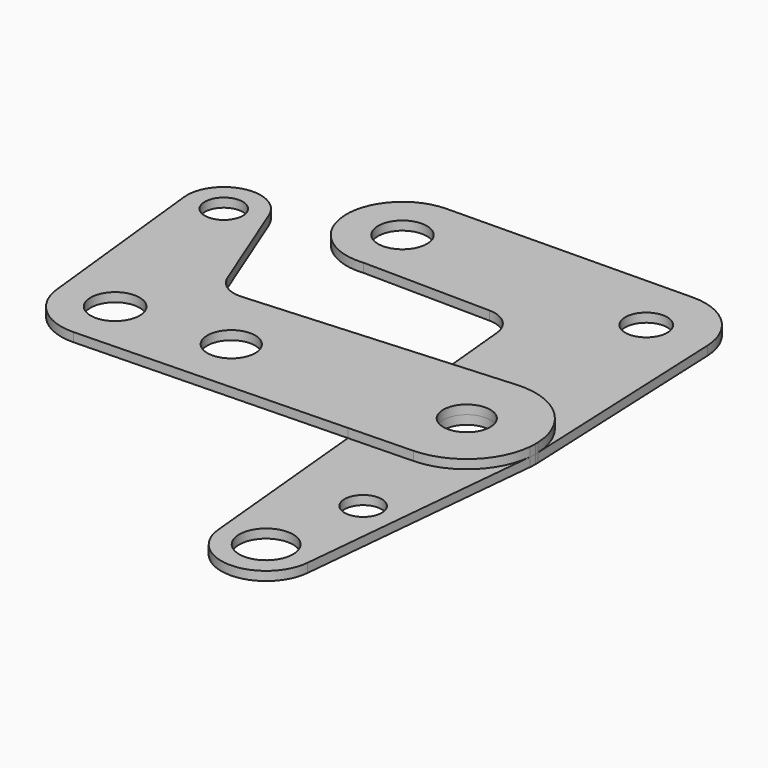
from build123d import *

# Parameters (mm, degrees)
F0_R     = 8.633264
F0_R_2   = 7.437079
F0_R_3   = 9.521946
F0_R_4   = 6.579418
F0_R_5   = 8.316772
F1_DEPTH = 3.175
F0_R_6   = 6.71425
F0_R_7   = 8.473209
F0_R_8   = 8.669764
F2_DEPTH = 3.175


with BuildPart() as f1:
    # F0 (on Top) → F1 (new body)
    with BuildSketch(Plane.XY):
        with BuildLine():
            ThreePointArc((-59.972242, 35.293062), (-47.28305, 41.723471), (-42.175356, 55.000415))
            ThreePointArc((-42.175356, 55.000415), (-48.067796, 69.097805), (-62.239713, 74.808676))
            ThreePointArc((-62.239713, 74.808676), (-81.762614, 53.865557), (-59.972242, 35.293062))
        make_face()
        with Locations((-61.985252, 55.000415)):
            Circle(F0_R, mode=Mode.SUBTRACT)
        with BuildLine():
            ThreePointArc((45.147991, 55.908182), (38.619234, 70.201531), (23.981405, 75.916291))
            ThreePointArc((23.981405, 75.916291), (9.55442, 40.114743), (45.167697, 55.000415))
            ThreePointArc((45.167697, 55.000415), (45.16277, 55.454405), (45.147991, 55.908182))
        make_face()
        with Locations((24.250095, 55.000415)):
            Circle(F0_R_2, mode=Mode.SUBTRACT)
        with BuildLine():
            ThreePointArc((8.443274, -114.59414), (24.250095, -128.955434), (40.056916, -114.59414))
            ThreePointArc((40.056916, -114.59414), (40.111468, -113.835873), (40.129666, -113.075864))
            ThreePointArc((40.129666, -113.075864), (23.490086, -97.214491), (8.443274, -114.59414))
        make_face()
        with Locations((24.250095, -113.075864)):
            Circle(F0_R_3, mode=Mode.SUBTRACT)
        with BuildLine():
            Line((22.584946, -0.056974), (-2.393872, -1.768306))
            Line((-2.393872, -1.768306), (0, -26.690974))
            ThreePointArc((0, -26.690974), (5.669394, -8.605748), (22.584946, -0.056974))
        make_face()
        with BuildLine():
            ThreePointArc((24.914322, -48.714351), (8.115332, -42.61443), (0, -26.690974))
            Line((0, -26.690974), (2.174963, -49.334574))
            Line((2.174963, -49.334574), (24.914322, -48.714351))
        make_face()
        with BuildLine():
            ThreePointArc((-62.239713, 74.808676), (-48.067796, 69.097805), (-42.175356, 55.000415))
            ThreePointArc((-42.175356, 55.000415), (-47.28305, 41.723471), (-59.972242, 35.293062))
            Line((-59.972242, 35.293062), (-15.000568, 34.721326))
            ThreePointArc((-15.000568, 34.721326), (-8.249935, 32.038382), (-5.016271, 25.533564))
            Line((-5.016271, 25.533564), (-2.393872, -1.768306))
            Line((-2.393872, -1.768306), (22.584946, -0.056974))
            ThreePointArc((22.584946, -0.056974), (40.486924, -6.19971), (48.588848, -23.304472))
            Line((48.588848, -23.304472), (45.147991, 55.908182))
            ThreePointArc((45.147991, 55.908182), (45.16277, 55.454405), (45.167697, 55.000415))
            ThreePointArc((45.167697, 55.000415), (9.55442, 40.114743), (23.981405, 75.916291))
            Line((23.981405, 75.916291), (-62.239713, 74.808676))
        make_face()
        with BuildLine():
            Line((40.056916, -114.59414), (48.50019, -26.690974))
            ThreePointArc((48.50019, -26.690974), (40.876524, -42.167727), (24.914322, -48.714351))
            Line((24.914322, -48.714351), (2.174963, -49.334574))
            Line((2.174963, -49.334574), (8.443274, -114.59414))
            ThreePointArc((8.443274, -114.59414), (23.490086, -97.214491), (40.129666, -113.075864))
            ThreePointArc((40.129666, -113.075864), (40.111468, -113.835873), (40.056916, -114.59414))
        make_face()
        with Locations((30.829513, -78.394532)):
            Circle(F0_R_4, mode=Mode.SUBTRACT)
        with BuildLine():
            ThreePointArc((48.611799, -24.361704), (48.60606, -23.832963), (48.588848, -23.304472))
            ThreePointArc((48.588848, -23.304472), (40.486924, -6.19971), (22.584946, -0.056974))
            ThreePointArc((22.584946, -0.056974), (5.669394, -8.605748), (0, -26.690974))
            ThreePointArc((0, -26.690974), (8.115332, -42.61443), (24.914322, -48.714351))
            ThreePointArc((24.914322, -48.714351), (40.876524, -42.167727), (48.50019, -26.690974))
            ThreePointArc((48.50019, -26.690974), (48.583881, -25.527675), (48.611799, -24.361704))
        make_face()
        with Locations((24.250095, -24.361704)):
            Circle(F0_R_5, mode=Mode.SUBTRACT)
    extrude(amount=-F1_DEPTH)


with BuildPart() as f2:
    # F0 (on Top) → F2 (new body)
    with BuildSketch(Plane.XY):
        with BuildLine():
            ThreePointArc((-93.457246, 31.628579), (-93.689713, 34.079123), (-94.378821, 36.442243))
            ThreePointArc((-94.378821, 36.442243), (-109.630388, 44.276858), (-119.445452, 30.21784))
            ThreePointArc((-119.445452, 30.21784), (-105.783231, 18.615345), (-93.457246, 31.628579))
        make_face()
        with Locations((-106.489639, 31.628579)):
            Circle(F0_R_6, mode=Mode.SUBTRACT)
        with BuildLine():
            Line((0, -26.690974), (-2.393872, -1.768306))
            Line((-2.393872, -1.768306), (-69.758201, -6.383527))
            ThreePointArc((-69.758201, -6.383527), (-75.867007, -4.844399), (-79.894193, 0))
            Line((-79.894193, 0), (-94.378821, 36.442243))
            ThreePointArc((-94.378821, 36.442243), (-93.689713, 34.079123), (-93.457246, 31.628579))
            ThreePointArc((-93.457246, 31.628579), (-105.783231, 18.615345), (-119.445452, 30.21784))
            Line((-119.445452, 30.21784), (-112.355037, -34.898432))
            ThreePointArc((-112.355037, -34.898432), (-94.399976, -13.755908), (-74.261771, -32.830583))
            ThreePointArc((-74.261771, -32.830583), (-79.673933, -46.152856), (-92.843689, -51.92624))
            Line((-92.843689, -51.92624), (2.174963, -49.334574))
            Line((2.174963, -49.334574), (0, -26.690974))
        make_face()
        with Locations((-54.239401, -30.381443)):
            Circle(F0_R_7, mode=Mode.SUBTRACT)
        with BuildLine():
            ThreePointArc((-112.355037, -34.898432), (-105.925131, -47.223174), (-92.843689, -51.92624))
            ThreePointArc((-92.843689, -51.92624), (-79.673933, -46.152856), (-74.261771, -32.830583))
            ThreePointArc((-74.261771, -32.830583), (-94.399976, -13.755908), (-112.355037, -34.898432))
        make_face()
        with Locations((-93.36453, -32.830583)):
            Circle(F0_R_8, mode=Mode.SUBTRACT)
        with BuildLine():
            Line((22.584946, -0.056974), (-2.393872, -1.768306))
            Line((-2.393872, -1.768306), (0, -26.690974))
            ThreePointArc((0, -26.690974), (5.669394, -8.605748), (22.584946, -0.056974))
        make_face()
        with BuildLine():
            ThreePointArc((24.914322, -48.714351), (8.115332, -42.61443), (0, -26.690974))
            Line((0, -26.690974), (2.174963, -49.334574))
            Line((2.174963, -49.334574), (24.914322, -48.714351))
        make_face()
        with BuildLine():
            ThreePointArc((48.611799, -24.361704), (48.60606, -23.832963), (48.588848, -23.304472))
            ThreePointArc((48.588848, -23.304472), (40.486924, -6.19971), (22.584946, -0.056974))
            ThreePointArc((22.584946, -0.056974), (5.669394, -8.605748), (0, -26.690974))
            ThreePointArc((0, -26.690974), (8.115332, -42.61443), (24.914322, -48.714351))
            ThreePointArc((24.914322, -48.714351), (40.876524, -42.167727), (48.50019, -26.690974))
            ThreePointArc((48.50019, -26.690974), (48.583881, -25.527675), (48.611799, -24.361704))
        make_face()
        with Locations((24.250095, -24.361704)):
            Circle(F0_R_5, mode=Mode.SUBTRACT)
    extrude(amount=F2_DEPTH)


solid = Compound([f1.part, f2.part])
